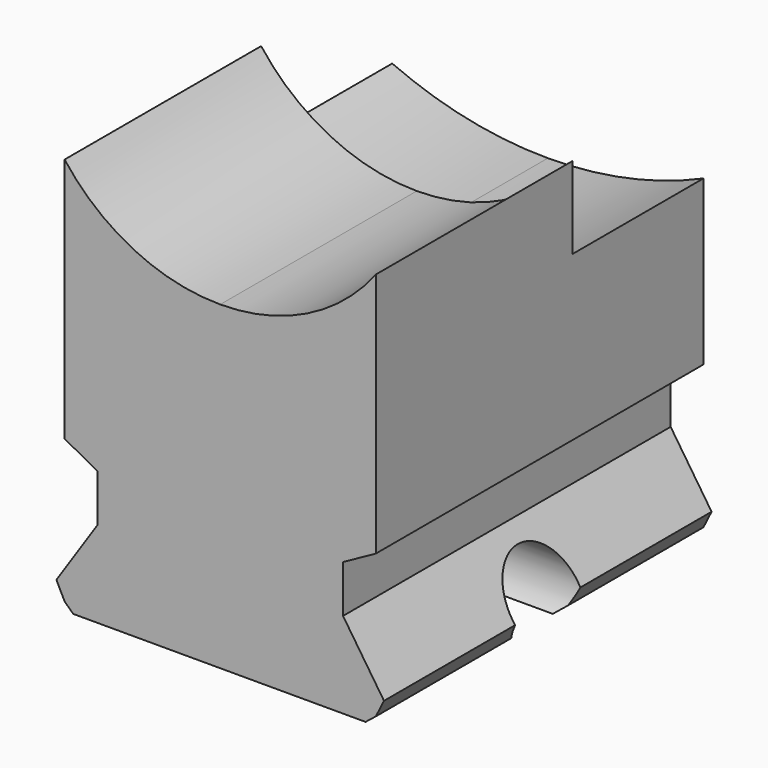
from build123d import *

# Parameters (mm, degrees)
F1_DEPTH       = 25
F3_DEPTH       = 25
F5_DEPTH       = 10
F6_DEPTH       = 5
F8_DEPTH       = 25
F10_DEPTH      = 25
F10_DEPTH_BACK = 25


with BuildPart() as f1:
    # F0 (on Front) → F1 (new body)
    with BuildSketch(Plane.XZ):
        with BuildLine():
            ThreePointArc((8.0529790092, -2), (3.1988570495, -1.4945793088), (-1.4470209908, 0))
            Line((-1.4470209908, 0), (-1.4470209908, -17))
            Line((-1.4470209908, -17), (17.5529790092, -17))
            Line((17.5529790092, -17), (17.5529790092, 0))
            ThreePointArc((17.5529790092, 0), (12.907100969, -1.4945793088), (8.0529790092, -2))
        make_face()
        Polygon((17.5529790092, -17), (-1.4470209908, -17), (-1.9470209908, -17.75), (18.0529790092, -17.75), align=None)
        Polygon((18.0529790092, -17.75), (-1.9470209908, -17.75), (-1.4470209908, -18.75), (17.5529790092, -18.75), align=None)
        Polygon((17.5529790092, -18.75), (-1.4470209908, -18.75), (-0.9180161287, -19.25), (16.9282071292, -19.25), align=None)
        with BuildLine():
            Line((8.0529790092, 0), (-1.4470209908, 0))
            ThreePointArc((-1.4470209908, 0), (3.1988570495, -1.4945793088), (8.0529790092, -2))
            Line((8.0529790092, -2), (8.0529790092, 0))
        make_face()
        with BuildLine():
            Line((17.5529790092, 0), (8.0529790092, 0))
            Line((8.0529790092, 0), (8.0529790092, -2))
            ThreePointArc((8.0529790092, -2), (12.907100969, -1.4945793088), (17.5529790092, 0))
        make_face()
    extrude(amount=F1_DEPTH)

    # F2 (on face) → F3 (cut)
    with BuildSketch(Plane.XZ.offset(25)):
        Polygon((-1.4470209908, -14), (-1.4470209908, -17), (0.5529790092, -14), (0.5529790092, -11.1042056233), (-1.4470209908, -11.1042056233), align=None)
        Polygon((-1.4470209908, -10), (-1.4470209908, -11.1042056233), (0.5529790092, -11.1042056233), align=None)
        Polygon((17.5529790092, -10), (15.5529790092, -11.1042056233), (15.5529790092, -14), (17.5529790092, -17), align=None)
    extrude(amount=-F3_DEPTH, mode=Mode.SUBTRACT)

    # F4 (on face) → F5 (cut)
    with BuildSketch(Plane(origin=(0, 0, 0), x_dir=(-1, 0, 0), z_dir=(0, 1, 0))):
        with BuildLine():
            Line((-8.0529790092, -2), (-8.0529790092, 0))
            Line((-8.0529790092, 0), (-17.5529790092, 0))
            ThreePointArc((-17.5529790092, 0), (-12.907100969, -1.4945793088), (-8.0529790092, -2))
        make_face()
        with BuildLine():
            Line((1.4470209908, 0), (-8.0529790092, 0))
            Line((-8.0529790092, 0), (-8.0529790092, -2))
            ThreePointArc((-8.0529790092, -2), (-3.1988570495, -1.4945793088), (1.4470209908, 0))
        make_face()
    extrude(amount=-F5_DEPTH, mode=Mode.SUBTRACT)

    # F6 (add): a face of the model
    f6_faces = [f1.faces().sort_by_distance(p)[0] for p in [
        (8.0529790092, -17.5, 0),
    ]]
    extrude(f6_faces, amount=F6_DEPTH)

    # F7 (on face) → F8 (cut)
    with BuildSketch(Plane.XZ.offset(25)):
        with BuildLine():
            Line((17.5529790092, 5), (-1.4470209908, 5))
            ThreePointArc((-1.4470209908, 5), (2.7534507283, 1.5392513471), (8.0529790092, 0.3))
            ThreePointArc((8.0529790092, 0.3), (13.3525072901, 1.5392513471), (17.5529790092, 5))
        make_face()
    extrude(amount=-F8_DEPTH, mode=Mode.SUBTRACT)

    # F9 (on face) → F10 (cut, two sides)
    with BuildSketch(Plane.YZ.offset(17.5529790092)) as f10_sk:
        with BuildLine():
            Line((-15, -17.5), (-10, -17.5))
            ThreePointArc((-10, -17.5), (-12.5, -15), (-15, -17.5))
        make_face()
        with BuildLine():
            ThreePointArc((-15, -17.5), (-12.5, -20), (-10, -17.5))
            Line((-10, -17.5), (-15, -17.5))
        make_face()
    extrude(amount=-F10_DEPTH, mode=Mode.SUBTRACT)
    extrude(f10_sk.sketch, amount=F10_DEPTH_BACK, mode=Mode.SUBTRACT)


solid = f1.part
